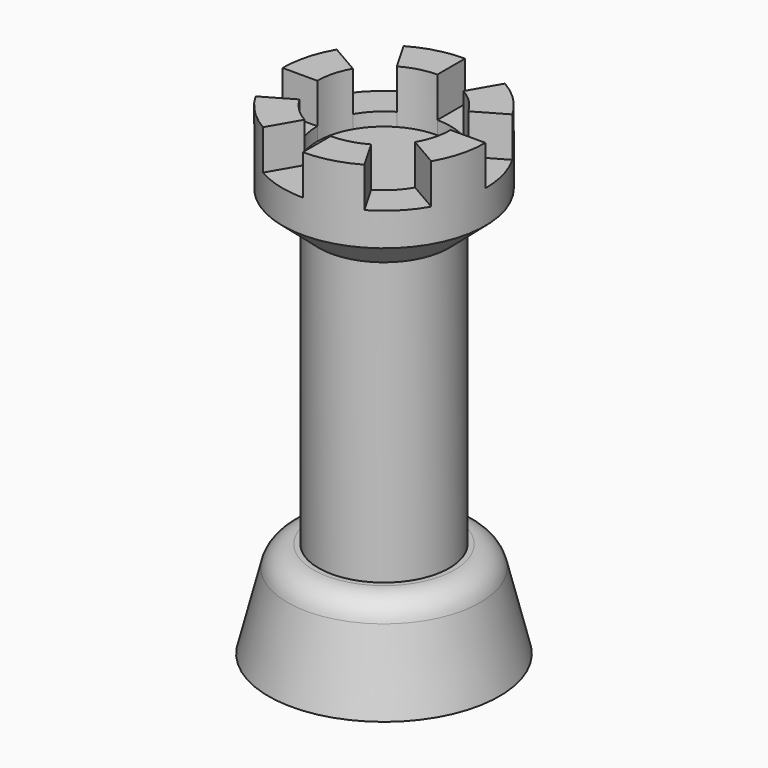
from build123d import *

# Parameters (mm, degrees)
F2_R     = 2.54
F4_DEPTH = 3.81
F5_DEPTH = 5.08


with BuildPart() as f1:
    # F0 (on Front) → F1 (revolve)
    with BuildSketch(Plane.XZ):
        Polygon((0, 0), (0, 45.974), (-9.660285, 45.974), (-9.660285, 39.017074), (-6.224093, 36.049455), (-6.224093, 9.1948), (-8.699501, 9.1948), (-10.9982, 0), align=None)
    revolve(axis=Axis((0, 0, 22.987), (0, 0, 1)))

    # F2
    f2_edges = [f1.edges().sort_by_distance(p)[0] for p in [
        (8.699501, 0, 9.1948),
    ]]
    fillet(f2_edges, radius=F2_R)

    # F3 (on face) → F4 (cut)
    with BuildSketch(Plane.XY.offset(45.974)):
        with BuildLine():
            ThreePointArc((-5.499261, 3.175), (-4.490128, 4.490128), (-3.175, 5.499261))
            Line((-3.175, 5.499261), (-4.830143, 8.366052))
            ThreePointArc((-4.830143, 8.366052), (-6.830853, 6.830853), (-8.366052, 4.830143))
            Line((-8.366052, 4.830143), (-5.499261, 3.175))
        make_face()
        with BuildLine():
            ThreePointArc((0, 6.35), (1.643501, 6.133629), (3.175, 5.499261))
            Line((3.175, 5.499261), (4.830143, 8.366052))
            ThreePointArc((4.830143, 8.366052), (2.500266, 9.331119), (0, 9.660285))
            Line((0, 9.660285), (0, 6.35))
        make_face()
        with BuildLine():
            ThreePointArc((5.499261, 3.175), (6.133629, 1.643501), (6.35, 0))
            Line((6.35, 0), (9.660285, 0))
            ThreePointArc((9.660285, 0), (9.331119, 2.500266), (8.366052, 4.830143))
            Line((8.366052, 4.830143), (5.499261, 3.175))
        make_face()
        with BuildLine():
            Line((8.366052, -4.830143), (5.499261, -3.175))
            ThreePointArc((5.499261, -3.175), (4.490128, -4.490128), (3.175, -5.499261))
            Line((3.175, -5.499261), (4.830143, -8.366052))
            ThreePointArc((4.830143, -8.366052), (6.830853, -6.830853), (8.366052, -4.830143))
        make_face()
        with BuildLine():
            Line((0, -9.660285), (0, -6.35))
            ThreePointArc((0, -6.35), (-1.643501, -6.133629), (-3.175, -5.499261))
            Line((-3.175, -5.499261), (-4.830143, -8.366052))
            ThreePointArc((-4.830143, -8.366052), (-2.500266, -9.331119), (0, -9.660285))
        make_face()
        with BuildLine():
            Line((-8.366052, -4.830143), (-5.499261, -3.175))
            ThreePointArc((-5.499261, -3.175), (-6.133629, -1.643501), (-6.35, 0))
            Line((-6.35, 0), (-9.660285, 0))
            ThreePointArc((-9.660285, 0), (-9.331119, -2.500266), (-8.366052, -4.830143))
        make_face()
    extrude(amount=-F4_DEPTH, mode=Mode.SUBTRACT)

    # F3 (on face) → F5 (cut)
    with BuildSketch(Plane.XY.offset(45.974)):
        with BuildLine():
            ThreePointArc((5.499261, -3.175), (6.133629, -1.643501), (6.35, 0))
            ThreePointArc((6.35, 0), (6.133629, 1.643501), (5.499261, 3.175))
            ThreePointArc((5.499261, 3.175), (4.490128, 4.490128), (3.175, 5.499261))
            ThreePointArc((3.175, 5.499261), (1.643501, 6.133629), (0, 6.35))
            ThreePointArc((0, 6.35), (-1.643501, 6.133629), (-3.175, 5.499261))
            ThreePointArc((-3.175, 5.499261), (-4.490128, 4.490128), (-5.499261, 3.175))
            ThreePointArc((-5.499261, 3.175), (-6.133629, 1.643501), (-6.35, 0))
            ThreePointArc((-6.35, 0), (-6.133629, -1.643501), (-5.499261, -3.175))
            ThreePointArc((-5.499261, -3.175), (-4.490128, -4.490128), (-3.175, -5.499261))
            ThreePointArc((-3.175, -5.499261), (-1.643501, -6.133629), (0, -6.35))
            ThreePointArc((0, -6.35), (1.643501, -6.133629), (3.175, -5.499261))
            ThreePointArc((3.175, -5.499261), (4.490128, -4.490128), (5.499261, -3.175))
        make_face()
    extrude(amount=-F5_DEPTH, mode=Mode.SUBTRACT)


solid = f1.part
